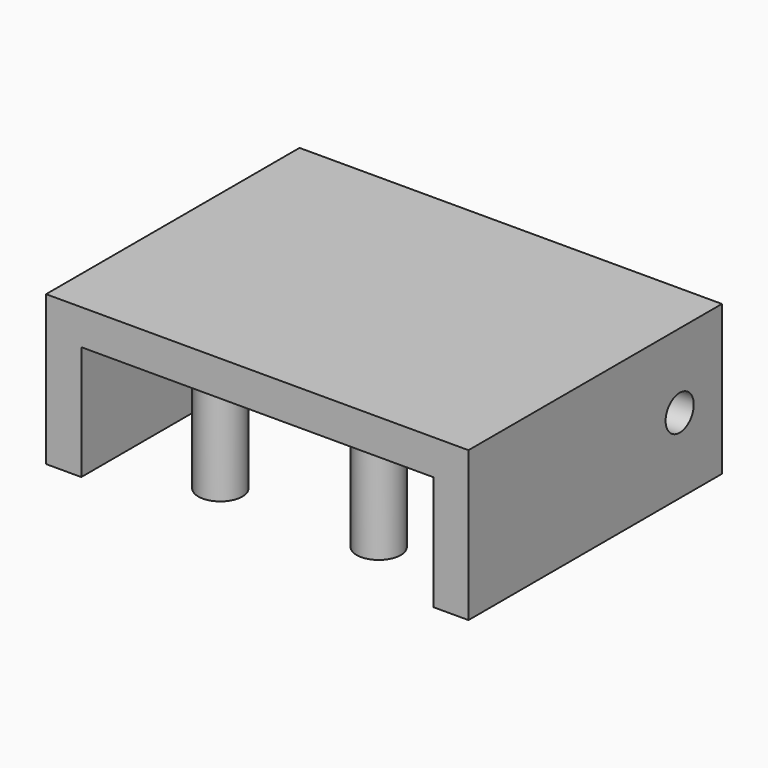
from build123d import *

# Parameters (mm, degrees)
F0_W      = 24
F0_H      = 18
F2_DEPTH  = 8.5
F1_W      = 20
F1_H      = 12
F1_R      = 1.25
F3_DEPTH  = 6.5
F4_R      = 1
F5_DEPTH  = 25
F3_FACE_W = 20
F3_FACE_H = 6.5
F6_DEPTH  = 4.5


with BuildPart() as f2:
    # F0 (on Top) → F2 (new body)
    with BuildSketch(Plane.XY):
        with Locations((0, 3)):
            Rectangle(F0_W, F0_H)
    extrude(amount=F2_DEPTH)

    # F1 (on Top) → F3 (cut)
    with BuildSketch(Plane.XY):
        Rectangle(F1_W, F1_H)
        with Locations((-4.5, -3)):
            Circle(F1_R, mode=Mode.SUBTRACT)
        with Locations((4.5, -3)):
            Circle(F1_R, mode=Mode.SUBTRACT)
    extrude(amount=F3_DEPTH, mode=Mode.SUBTRACT)

    # F4 (on face) → F5 (cut)
    with BuildSketch(Plane(origin=(-12, 0, 0), x_dir=(0, -1, 0), z_dir=(-1, 0, 0))):
        with Locations((-9, 4.276814)):
            Circle(F4_R)
        with Locations((-9, 4.276814)):
            Circle(F4_R)
    extrude(amount=-F5_DEPTH, mode=Mode.SUBTRACT)

    # F3_face (on face) → F6 (cut)
    with BuildSketch(Plane(origin=(0, 6, 3.25), x_dir=(1, 0, 0), z_dir=(0, -1, 0))):
        Rectangle(F3_FACE_W, F3_FACE_H)
    extrude(amount=-F6_DEPTH, mode=Mode.SUBTRACT)


solid = f2.part
